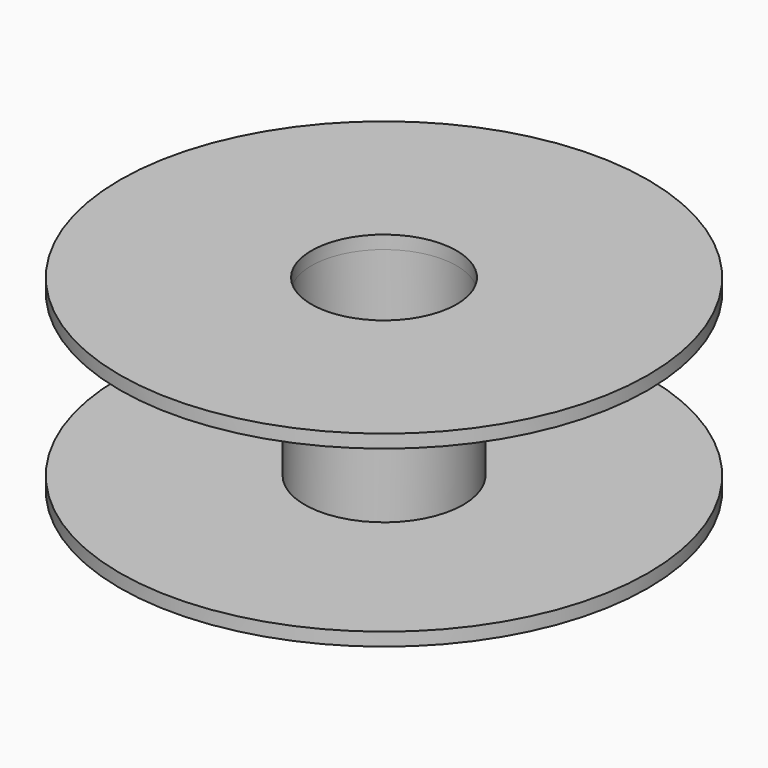
from build123d import *

# Parameters (mm, degrees)
F0_R          = 100
F0_R_2        = 30
F1_DEPTH      = 5
F0_R_3        = 27.5
F2_DEPTH      = 5
F2_DEPTH_BACK = 66
F3_START      = -61
F3_DEPTH      = 5


with BuildPart() as f1:
    # F0 (on Top) → F1 (new body)
    with BuildSketch(Plane.XY):
        Circle(F0_R)
        Circle(F0_R_2, mode=Mode.SUBTRACT)
    extrude(amount=F1_DEPTH)

    # F0 (on Top) → F2 (join, two sides)
    with BuildSketch(Plane.XY) as f2_sk:
        Circle(F0_R_2)
        Circle(F0_R_3, mode=Mode.SUBTRACT)
    extrude(amount=F2_DEPTH)
    extrude(f2_sk.sketch, amount=-F2_DEPTH_BACK)

    # F0 (on Top) → F3 (join)
    with BuildSketch(Plane.XY.offset(F3_START)):
        Circle(F0_R)
        Circle(F0_R_2, mode=Mode.SUBTRACT)
    extrude(amount=-F3_DEPTH)


solid = f1.part
